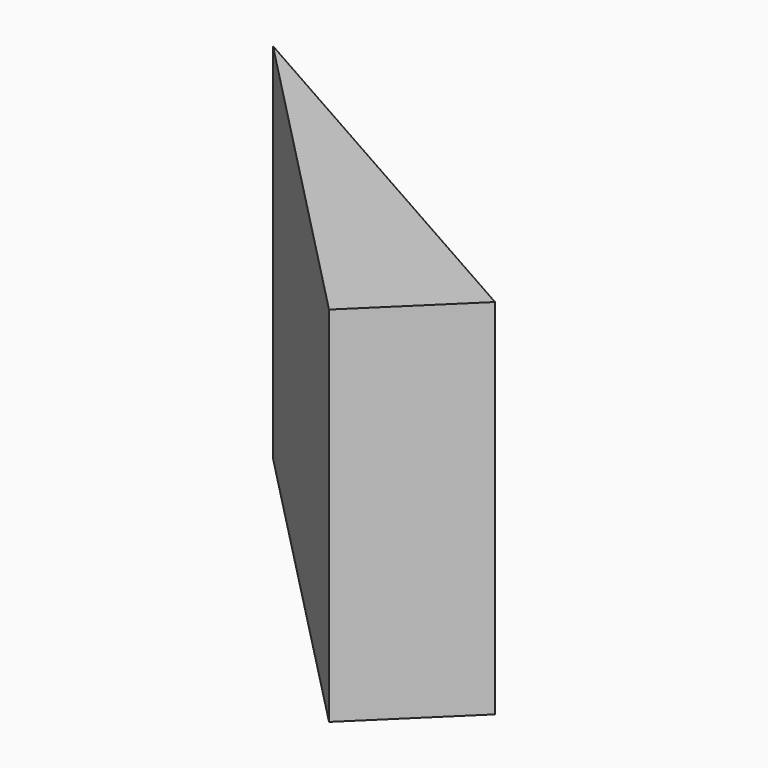
from build123d import *

# Parameters (mm, degrees)
F1_DEPTH = 87.452665


with BuildPart() as f1:
    # F0 (on Top) → F1 (new body)
    with BuildSketch(Plane.XY):
        Polygon((0, 0), (22.467554, 21.901146), (-75.285631, 77.23267), align=None)
    extrude(amount=-F1_DEPTH)


solid = f1.part
